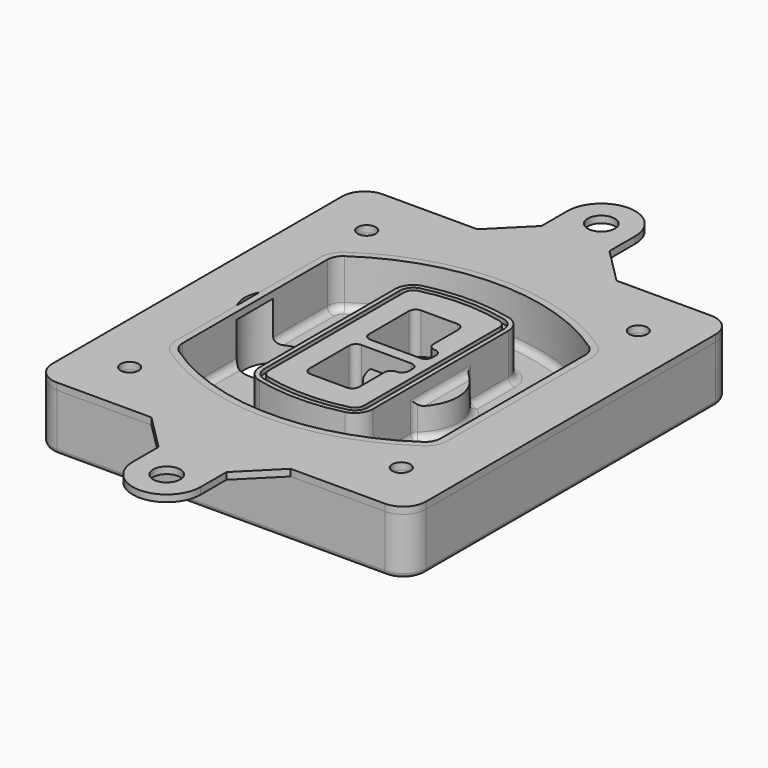
from build123d import *

# Parameters (mm, degrees)
F0_R      = 4
F1_DEPTH  = 25
F2_DEPTH  = 3
F3_DEPTH  = 18
F5_DEPTH  = 21
F6_DEPTH  = 2
F8_DEPTH  = 20
F9_DEPTH  = 16
F10_DEPTH = 25
F7_R      = 6
F7_R_2    = 4
F11_DEPTH = 6
F13_DEPTH = 9
F14_R     = 3
F15_R     = 2
F16_R     = 6
F16_R_2   = 4
F17_DEPTH = 3


with BuildPart() as f1:
    # F0 (on Top) → F1 (new body)
    with BuildSketch(Plane.XY):
        with BuildLine():
            ThreePointArc((-82.5, -80), (-79.5710678119, -87.0710678119), (-72.5, -90))
            Line((-72.5, -90), (72.5, -90))
            ThreePointArc((72.5, -90), (79.5710678119, -87.0710678119), (82.5, -80))
            Line((82.5, -80), (82.5, 80))
            ThreePointArc((82.5, 80), (79.5710678119, 87.0710678119), (72.5, 90))
            Line((72.5, 90), (-72.5, 90))
            ThreePointArc((-72.5, 90), (-79.5710678119, 87.0710678119), (-82.5, 80))
            Line((-82.5, 80), (-82.5, -80))
        make_face()
        with Locations((-60, -65.4545454545)):
            Circle(F0_R, mode=Mode.SUBTRACT)
        with Locations((60, -65.4545454545)):
            Circle(F0_R, mode=Mode.SUBTRACT)
        with Locations((-60, 65.4545454545)):
            Circle(F0_R, mode=Mode.SUBTRACT)
        with BuildLine():
            ThreePointArc((-64, 39.9187553982), (-62.3910605792, 46.4350133521), (-57.934054611, 51.4535192635))
            ThreePointArc((-57.934054611, 51.4535192635), (0, 69.4545454545), (57.934054611, 51.4535192635))
            ThreePointArc((57.934054611, 51.4535192635), (62.3910605792, 46.4350133521), (64, 39.9187553982))
            Line((64, 39.9187553982), (64, -39.9187553982))
            ThreePointArc((64, -39.9187553982), (62.3910605792, -46.4350133521), (57.934054611, -51.4535192635))
            ThreePointArc((57.934054611, -51.4535192635), (0, -69.4545454545), (-57.934054611, -51.4535192635))
            ThreePointArc((-57.934054611, -51.4535192635), (-62.3910605792, -46.4350133521), (-64, -39.9187553982))
            Line((-64, -39.9187553982), (-64, 39.9187553982))
        make_face(mode=Mode.SUBTRACT)
        with Locations((60, 65.4545454545)):
            Circle(F0_R, mode=Mode.SUBTRACT)
        with BuildLine():
            ThreePointArc((57.934054611, 51.4535192635), (0, 69.4545454545), (-57.934054611, 51.4535192635))
            ThreePointArc((-57.934054611, 51.4535192635), (-62.3910605792, 46.4350133521), (-64, 39.9187553982))
            Line((-64, 39.9187553982), (-64, -39.9187553982))
            ThreePointArc((-64, -39.9187553982), (-62.3910605792, -46.4350133521), (-57.934054611, -51.4535192635))
            ThreePointArc((-57.934054611, -51.4535192635), (0, -69.4545454545), (57.934054611, -51.4535192635))
            ThreePointArc((57.934054611, -51.4535192635), (62.3910605792, -46.4350133521), (64, -39.9187553982))
            Line((64, -39.9187553982), (64, 39.9187553982))
            ThreePointArc((64, 39.9187553982), (62.3910605792, 46.4350133521), (57.934054611, 51.4535192635))
        make_face()
        with BuildLine():
            Line((-60, -39.9187553982), (-60, 39.9187553982))
            ThreePointArc((-60, 39.9187553982), (-58.8507575566, 44.5732253653), (-55.667181865, 48.1578724448))
            ThreePointArc((-55.667181865, 48.1578724448), (0, 65.4545454545), (55.667181865, 48.1578724448))
            ThreePointArc((55.667181865, 48.1578724448), (58.8507575566, 44.5732253653), (60, 39.9187553982))
            Line((60, 39.9187553982), (60, -39.9187553982))
            ThreePointArc((60, -39.9187553982), (58.8507575566, -44.5732253653), (55.667181865, -48.1578724448))
            ThreePointArc((55.667181865, -48.1578724448), (0, -65.4545454545), (-55.667181865, -48.1578724448))
            ThreePointArc((-55.667181865, -48.1578724448), (-58.8507575566, -44.5732253653), (-60, -39.9187553982))
        make_face(mode=Mode.SUBTRACT)
        with BuildLine():
            ThreePointArc((-55.667181865, 48.1578724448), (-58.8507575566, 44.5732253653), (-60, 39.9187553982))
            Line((-60, 39.9187553982), (-60, -39.9187553982))
            ThreePointArc((-60, -39.9187553982), (-58.8507575566, -44.5732253653), (-55.667181865, -48.1578724448))
            ThreePointArc((-55.667181865, -48.1578724448), (0, -65.4545454545), (55.667181865, -48.1578724448))
            ThreePointArc((55.667181865, -48.1578724448), (58.8507575566, -44.5732253653), (60, -39.9187553982))
            Line((60, -39.9187553982), (60, 39.9187553982))
            ThreePointArc((60, 39.9187553982), (58.8507575566, 44.5732253653), (55.667181865, 48.1578724448))
            ThreePointArc((55.667181865, 48.1578724448), (0, 65.4545454545), (-55.667181865, 48.1578724448))
        make_face()
        with BuildLine():
            ThreePointArc((53.9670273055, 45.6861373308), (56.1955302896, 43.1768843752), (57, 39.9187553982))
            Line((57, 39.9187553982), (57, -39.9187553982))
            ThreePointArc((57, -39.9187553982), (56.1955302896, -43.1768843752), (53.9670273055, -45.6861373308))
            ThreePointArc((53.9670273055, -45.6861373308), (0, -62.4545454545), (-53.9670273055, -45.6861373308))
            ThreePointArc((-53.9670273055, -45.6861373308), (-56.1955302896, -43.1768843752), (-57, -39.9187553982))
            Line((-57, -39.9187553982), (-57, 39.9187553982))
            ThreePointArc((-57, 39.9187553982), (-56.1955302896, 43.1768843752), (-53.9670273055, 45.6861373308))
            ThreePointArc((-53.9670273055, 45.6861373308), (0, 62.4545454545), (53.9670273055, 45.6861373308))
        make_face(mode=Mode.SUBTRACT)
        with BuildLine():
            Line((57, -39.9187553982), (57, 39.9187553982))
            ThreePointArc((57, 39.9187553982), (56.1955302896, 43.1768843752), (53.9670273055, 45.6861373308))
            ThreePointArc((53.9670273055, 45.6861373308), (0, 62.4545454545), (-53.9670273055, 45.6861373308))
            ThreePointArc((-53.9670273055, 45.6861373308), (-56.1955302896, 43.1768843752), (-57, 39.9187553982))
            Line((-57, 39.9187553982), (-57, -39.9187553982))
            ThreePointArc((-57, -39.9187553982), (-56.1955302896, -43.1768843752), (-53.9670273055, -45.6861373308))
            ThreePointArc((-53.9670273055, -45.6861373308), (0, -62.4545454545), (53.9670273055, -45.6861373308))
            ThreePointArc((53.9670273055, -45.6861373308), (56.1955302896, -43.1768843752), (57, -39.9187553982))
        make_face()
    extrude(amount=-F1_DEPTH)

    # F0 (on Top) → F2 (join)
    with BuildSketch(Plane.XY):
        with BuildLine():
            ThreePointArc((-55.667181865, 48.1578724448), (-58.8507575566, 44.5732253653), (-60, 39.9187553982))
            Line((-60, 39.9187553982), (-60, -39.9187553982))
            ThreePointArc((-60, -39.9187553982), (-58.8507575566, -44.5732253653), (-55.667181865, -48.1578724448))
            ThreePointArc((-55.667181865, -48.1578724448), (0, -65.4545454545), (55.667181865, -48.1578724448))
            ThreePointArc((55.667181865, -48.1578724448), (58.8507575566, -44.5732253653), (60, -39.9187553982))
            Line((60, -39.9187553982), (60, 39.9187553982))
            ThreePointArc((60, 39.9187553982), (58.8507575566, 44.5732253653), (55.667181865, 48.1578724448))
            ThreePointArc((55.667181865, 48.1578724448), (0, 65.4545454545), (-55.667181865, 48.1578724448))
        make_face()
        with BuildLine():
            ThreePointArc((53.9670273055, 45.6861373308), (56.1955302896, 43.1768843752), (57, 39.9187553982))
            Line((57, 39.9187553982), (57, -39.9187553982))
            ThreePointArc((57, -39.9187553982), (56.1955302896, -43.1768843752), (53.9670273055, -45.6861373308))
            ThreePointArc((53.9670273055, -45.6861373308), (0, -62.4545454545), (-53.9670273055, -45.6861373308))
            ThreePointArc((-53.9670273055, -45.6861373308), (-56.1955302896, -43.1768843752), (-57, -39.9187553982))
            Line((-57, -39.9187553982), (-57, 39.9187553982))
            ThreePointArc((-57, 39.9187553982), (-56.1955302896, 43.1768843752), (-53.9670273055, 45.6861373308))
            ThreePointArc((-53.9670273055, 45.6861373308), (0, 62.4545454545), (53.9670273055, 45.6861373308))
        make_face(mode=Mode.SUBTRACT)
    extrude(amount=F2_DEPTH)

    # F0 (on Top) → F3 (cut)
    with BuildSketch(Plane.XY):
        with BuildLine():
            Line((57, -39.9187553982), (57, 39.9187553982))
            ThreePointArc((57, 39.9187553982), (56.1955302896, 43.1768843752), (53.9670273055, 45.6861373308))
            ThreePointArc((53.9670273055, 45.6861373308), (0, 62.4545454545), (-53.9670273055, 45.6861373308))
            ThreePointArc((-53.9670273055, 45.6861373308), (-56.1955302896, 43.1768843752), (-57, 39.9187553982))
            Line((-57, 39.9187553982), (-57, -39.9187553982))
            ThreePointArc((-57, -39.9187553982), (-56.1955302896, -43.1768843752), (-53.9670273055, -45.6861373308))
            ThreePointArc((-53.9670273055, -45.6861373308), (0, -62.4545454545), (53.9670273055, -45.6861373308))
            ThreePointArc((53.9670273055, -45.6861373308), (56.1955302896, -43.1768843752), (57, -39.9187553982))
        make_face()
    extrude(amount=-F3_DEPTH, mode=Mode.SUBTRACT)

    # F4 (on face) → F5 (join, through all)
    with BuildSketch(Plane.XY.offset(3)):
        with BuildLine():
            ThreePointArc((-25, -37.4254131985), (-23.2874303968, -42.3719492598), (-18.8829452486, -45.2006634961))
            ThreePointArc((-18.8829452486, -45.2006634961), (0, -47.4545454545), (18.8829452486, -45.2006634961))
            ThreePointArc((18.8829452486, -45.2006634961), (23.2874303968, -42.3719492598), (25, -37.4254131985))
            Line((25, -37.4254131985), (25, 37.4254131985))
            ThreePointArc((25, 37.4254131985), (23.2874303968, 42.3719492598), (18.8829452486, 45.2006634961))
            ThreePointArc((18.8829452486, 45.2006634961), (0, 47.4545454545), (-18.8829452486, 45.2006634961))
            ThreePointArc((-18.8829452486, 45.2006634961), (-23.2874303968, 42.3719492598), (-25, 37.4254131985))
            Line((-25, 37.4254131985), (-25, -37.4254131985))
        make_face()
        with BuildLine():
            ThreePointArc((18.4122089364, 43.2568509217), (21.7155727976, 41.1353152445), (23, 37.4254131985))
            Line((23, 37.4254131985), (23, -37.4254131985))
            ThreePointArc((23, -37.4254131985), (21.7155727976, -41.1353152445), (18.4122089364, -43.2568509217))
            ThreePointArc((18.4122089364, -43.2568509217), (0, -45.4545454545), (-18.4122089364, -43.2568509217))
            ThreePointArc((-18.4122089364, -43.2568509217), (-21.7155727976, -41.1353152445), (-23, -37.4254131985))
            Line((-23, -37.4254131985), (-23, 37.4254131985))
            ThreePointArc((-23, 37.4254131985), (-21.7155727976, 41.1353152445), (-18.4122089364, 43.2568509217))
            ThreePointArc((-18.4122089364, 43.2568509217), (0, 45.4545454545), (18.4122089364, 43.2568509217))
        make_face(mode=Mode.SUBTRACT)
        with BuildLine():
            Line((23, -37.4254131985), (23, 37.4254131985))
            ThreePointArc((23, 37.4254131985), (21.7155727976, 41.1353152445), (18.4122089364, 43.2568509217))
            ThreePointArc((18.4122089364, 43.2568509217), (0, 45.4545454545), (-18.4122089364, 43.2568509217))
            ThreePointArc((-18.4122089364, 43.2568509217), (-21.7155727976, 41.1353152445), (-23, 37.4254131985))
            Line((-23, 37.4254131985), (-23, -37.4254131985))
            ThreePointArc((-23, -37.4254131985), (-21.7155727976, -41.1353152445), (-18.4122089364, -43.2568509217))
            ThreePointArc((-18.4122089364, -43.2568509217), (0, -45.4545454545), (18.4122089364, -43.2568509217))
            ThreePointArc((18.4122089364, -43.2568509217), (21.7155727976, -41.1353152445), (23, -37.4254131985))
        make_face()
        with BuildLine():
            ThreePointArc((17.9414726243, 41.3130383473), (20.1437151984, 39.8986812292), (21, 37.4254131985))
            Line((21, 37.4254131985), (21, -37.4254131985))
            ThreePointArc((21, -37.4254131985), (20.1437151984, -39.8986812292), (17.9414726243, -41.3130383473))
            ThreePointArc((17.9414726243, -41.3130383473), (0, -43.4545454545), (-17.9414726243, -41.3130383473))
            ThreePointArc((-17.9414726243, -41.3130383473), (-20.1437151984, -39.8986812292), (-21, -37.4254131985))
            Line((-21, -37.4254131985), (-21, 37.4254131985))
            ThreePointArc((-21, 37.4254131985), (-20.1437151984, 39.8986812292), (-17.9414726243, 41.3130383473))
            ThreePointArc((-17.9414726243, 41.3130383473), (0, 43.4545454545), (17.9414726243, 41.3130383473))
        make_face(mode=Mode.SUBTRACT)
        with BuildLine():
            Line((21, -37.4254131985), (21, 37.4254131985))
            ThreePointArc((21, 37.4254131985), (20.1437151984, 39.8986812292), (17.9414726243, 41.3130383473))
            ThreePointArc((17.9414726243, 41.3130383473), (0, 43.4545454545), (-17.9414726243, 41.3130383473))
            ThreePointArc((-17.9414726243, 41.3130383473), (-20.1437151984, 39.8986812292), (-21, 37.4254131985))
            Line((-21, 37.4254131985), (-21, -37.4254131985))
            ThreePointArc((-21, -37.4254131985), (-20.1437151984, -39.8986812292), (-17.9414726243, -41.3130383473))
            ThreePointArc((-17.9414726243, -41.3130383473), (0, -43.4545454545), (17.9414726243, -41.3130383473))
            ThreePointArc((17.9414726243, -41.3130383473), (20.1437151984, -39.8986812292), (21, -37.4254131985))
        make_face()
        with BuildLine():
            Line((-8, -2.5), (14, -2.5))
            ThreePointArc((14, -2.5), (16.1213203436, -3.3786796564), (17, -5.5))
            Line((17, -5.5), (17, -7.5))
            ThreePointArc((17, -7.5), (16.1213203436, -9.6213203436), (14, -10.5))
            ThreePointArc((14, -10.5), (11.8786796564, -11.3786796564), (11, -13.5))
            Line((11, -13.5), (11, -27.5))
            ThreePointArc((11, -27.5), (10.1213203436, -29.6213203436), (8, -30.5))
            Line((8, -30.5), (-8, -30.5))
            ThreePointArc((-8, -30.5), (-10.1213203436, -29.6213203436), (-11, -27.5))
            Line((-11, -27.5), (-11, -5.5))
            ThreePointArc((-11, -5.5), (-10.1213203436, -3.3786796564), (-8, -2.5))
        make_face(mode=Mode.SUBTRACT)
        with BuildLine():
            ThreePointArc((-8, 2.5), (-10.1213203436, 3.3786796564), (-11, 5.5))
            Line((-11, 5.5), (-11, 27.5))
            ThreePointArc((-11, 27.5), (-10.1213203436, 29.6213203436), (-8, 30.5))
            Line((-8, 30.5), (8, 30.5))
            ThreePointArc((8, 30.5), (10.1213203436, 29.6213203436), (11, 27.5))
            Line((11, 27.5), (11, 13.5))
            ThreePointArc((11, 13.5), (11.8786796564, 11.3786796564), (14, 10.5))
            ThreePointArc((14, 10.5), (16.1213203436, 9.6213203436), (17, 7.5))
            Line((17, 7.5), (17, 5.5))
            ThreePointArc((17, 5.5), (16.1213203436, 3.3786796564), (14, 2.5))
            Line((14, 2.5), (-8, 2.5))
        make_face(mode=Mode.SUBTRACT)
    extrude(amount=-F5_DEPTH)

    # F4 (on face) → F6 (cut)
    with BuildSketch(Plane.XY.offset(3)):
        with BuildLine():
            Line((23, -37.4254131985), (23, 37.4254131985))
            ThreePointArc((23, 37.4254131985), (21.7155727976, 41.1353152445), (18.4122089364, 43.2568509217))
            ThreePointArc((18.4122089364, 43.2568509217), (0, 45.4545454545), (-18.4122089364, 43.2568509217))
            ThreePointArc((-18.4122089364, 43.2568509217), (-21.7155727976, 41.1353152445), (-23, 37.4254131985))
            Line((-23, 37.4254131985), (-23, -37.4254131985))
            ThreePointArc((-23, -37.4254131985), (-21.7155727976, -41.1353152445), (-18.4122089364, -43.2568509217))
            ThreePointArc((-18.4122089364, -43.2568509217), (0, -45.4545454545), (18.4122089364, -43.2568509217))
            ThreePointArc((18.4122089364, -43.2568509217), (21.7155727976, -41.1353152445), (23, -37.4254131985))
        make_face()
        with BuildLine():
            ThreePointArc((17.9414726243, 41.3130383473), (20.1437151984, 39.8986812292), (21, 37.4254131985))
            Line((21, 37.4254131985), (21, -37.4254131985))
            ThreePointArc((21, -37.4254131985), (20.1437151984, -39.8986812292), (17.9414726243, -41.3130383473))
            ThreePointArc((17.9414726243, -41.3130383473), (0, -43.4545454545), (-17.9414726243, -41.3130383473))
            ThreePointArc((-17.9414726243, -41.3130383473), (-20.1437151984, -39.8986812292), (-21, -37.4254131985))
            Line((-21, -37.4254131985), (-21, 37.4254131985))
            ThreePointArc((-21, 37.4254131985), (-20.1437151984, 39.8986812292), (-17.9414726243, 41.3130383473))
            ThreePointArc((-17.9414726243, 41.3130383473), (0, 43.4545454545), (17.9414726243, 41.3130383473))
        make_face(mode=Mode.SUBTRACT)
    extrude(amount=-F6_DEPTH, mode=Mode.SUBTRACT)

    # F7 (on face) → F8 (join)
    with BuildSketch(Plane(origin=(0, 0, -25), x_dir=(1, 0, 0), z_dir=(0, 0, -1))):
        with BuildLine():
            ThreePointArc((0.78842436, 0), (14.2567035675, 13.4682792075), (27.724982775, 0))
            Line((27.724982775, 0), (32.724982775, 0))
            ThreePointArc((32.724982775, 0), (14.2567035675, 18.4682792075), (-4.21157564, 0))
            Line((-4.21157564, 0), (0.78842436, 0))
        make_face()
        with BuildLine():
            Line((0.78842436, 0), (27.724982775, 0))
            ThreePointArc((27.724982775, 0), (14.2567035675, 13.4682792075), (0.78842436, 0))
        make_face()
        with BuildLine():
            ThreePointArc((0.78842436, 0), (14.2567035675, -13.4682792075), (27.724982775, 0))
            Line((27.724982775, 0), (0.78842436, 0))
        make_face()
        with BuildLine():
            Line((32.724982775, 0), (27.724982775, 0))
            ThreePointArc((27.724982775, 0), (14.2567035675, -13.4682792075), (0.78842436, 0))
            Line((0.78842436, 0), (-4.21157564, 0))
            ThreePointArc((-4.21157564, 0), (14.2567035675, -18.4682792075), (32.724982775, 0))
        make_face()
    extrude(amount=-F8_DEPTH)

    # F7 (on face) → F9 (cut)
    with BuildSketch(Plane(origin=(0, 0, -25), x_dir=(1, 0, 0), z_dir=(0, 0, -1))):
        with BuildLine():
            Line((0.78842436, 0), (27.724982775, 0))
            ThreePointArc((27.724982775, 0), (14.2567035675, 13.4682792075), (0.78842436, 0))
        make_face()
        with BuildLine():
            ThreePointArc((0.78842436, 0), (14.2567035675, -13.4682792075), (27.724982775, 0))
            Line((27.724982775, 0), (0.78842436, 0))
        make_face()
    extrude(amount=-F9_DEPTH, mode=Mode.SUBTRACT)

    # F7 (on face) → F10 (cut)
    with BuildSketch(Plane(origin=(0, 0, -25), x_dir=(1, 0, 0), z_dir=(0, 0, -1))):
        with BuildLine():
            Line((-61.5318229325, 0), (-34.5952645175, 0))
            ThreePointArc((-34.5952645175, 0), (-48.063543725, 13.4682792075), (-61.5318229325, 0))
        make_face()
        with BuildLine():
            ThreePointArc((-61.5318229325, 0), (-48.063543725, -13.4682792075), (-34.5952645175, 0))
            Line((-34.5952645175, 0), (-61.5318229325, 0))
        make_face()
    extrude(amount=-F10_DEPTH, mode=Mode.SUBTRACT)

    # F7 (on face) → F11 (cut)
    with BuildSketch(Plane(origin=(0, 0, -25), x_dir=(1, 0, 0), z_dir=(0, 0, -1))):
        with Locations((60, -65.4545454545)):
            Circle(F7_R)
        with Locations((60, -65.4545454545)):
            Circle(F7_R_2, mode=Mode.SUBTRACT)
        with Locations((60, -65.4545454545)):
            Circle(F7_R)
        with Locations((60, -65.4545454545)):
            Circle(F7_R_2, mode=Mode.SUBTRACT)
        with Locations((-60, -65.4545454545)):
            Circle(F7_R)
        with Locations((-60, -65.4545454545)):
            Circle(F7_R_2, mode=Mode.SUBTRACT)
        with Locations((-60, -65.4545454545)):
            Circle(F7_R)
        with Locations((-60, -65.4545454545)):
            Circle(F7_R_2, mode=Mode.SUBTRACT)
        with Locations((-60, 65.4545454545)):
            Circle(F7_R)
        with Locations((-60, 65.4545454545)):
            Circle(F7_R_2, mode=Mode.SUBTRACT)
        with Locations((-60, 65.4545454545)):
            Circle(F7_R)
        with Locations((-60, 65.4545454545)):
            Circle(F7_R_2, mode=Mode.SUBTRACT)
        with Locations((60, 65.4545454545)):
            Circle(F7_R)
        with Locations((60, 65.4545454545)):
            Circle(F7_R_2, mode=Mode.SUBTRACT)
        with Locations((60, 65.4545454545)):
            Circle(F7_R)
        with Locations((60, 65.4545454545)):
            Circle(F7_R_2, mode=Mode.SUBTRACT)
    extrude(amount=-F11_DEPTH, mode=Mode.SUBTRACT)

    # F12 (on face) → F13 (cut, through all)
    with BuildSketch(Plane(origin=(0, 0, -9), x_dir=(1, 0, 0), z_dir=(0, 0, -1))):
        with BuildLine():
            Line((11, 13.5), (11, 18.1788673674))
            ThreePointArc((11, 18.1788673674), (0.9296208472, 12.785390219), (-4.0415842455, 2.5))
            Line((-4.0415842455, 2.5), (1.0224848595, 2.5))
            ThreePointArc((1.0224848595, 2.5), (4.4739151918, 9.256975554), (11.0301038552, 13.0760697118))
            ThreePointArc((11.0301038552, 13.0760697118), (11.0075354276, 13.2875010992), (11, 13.5))
        make_face()
        with BuildLine():
            ThreePointArc((11.0301038552, -13.0760697118), (4.4739151918, -9.256975554), (1.0224848595, -2.5))
            Line((1.0224848595, -2.5), (-4.0415842455, -2.5))
            ThreePointArc((-4.0415842455, -2.5), (0.9296208472, -12.785390219), (11, -18.1788673674))
            Line((11, -18.1788673674), (11, -13.5))
            ThreePointArc((11, -13.5), (11.0075354276, -13.2875010992), (11.0301038552, -13.0760697118))
        make_face()
        with BuildLine():
            ThreePointArc((11.0301038552, 13.0760697118), (4.4739151918, 9.256975554), (1.0224848595, 2.5))
            Line((1.0224848595, 2.5), (14, 2.5))
            ThreePointArc((14, 2.5), (16.1213203436, 3.3786796564), (17, 5.5))
            Line((17, 5.5), (17, 7.5))
            ThreePointArc((17, 7.5), (16.1213203436, 9.6213203436), (14, 10.5))
            ThreePointArc((14, 10.5), (12.0342674221, 11.2337485947), (11.0301038552, 13.0760697118))
        make_face()
        with BuildLine():
            Line((14, -2.5), (1.0224848595, -2.5))
            ThreePointArc((1.0224848595, -2.5), (4.4739151918, -9.256975554), (11.0301038552, -13.0760697118))
            ThreePointArc((11.0301038552, -13.0760697118), (12.0342674221, -11.2337485947), (14, -10.5))
            ThreePointArc((14, -10.5), (16.1213203436, -9.6213203436), (17, -7.5))
            Line((17, -7.5), (17, -5.5))
            ThreePointArc((17, -5.5), (16.1213203436, -3.3786796564), (14, -2.5))
        make_face()
    extrude(amount=F13_DEPTH, mode=Mode.SUBTRACT)

    # F14
    f14_edges = [f1.edges().sort_by_distance(p)[0] for p in [
        (-57, -24.997589, -18),
        (-57, 24.997589, -18),
        (25, 0, -5),
        (25, 15.021948, -11.5),
        (25, -15.021948, -11.5),
        (25, -26.223681, -18),
        (32.724983, 0, -18),
    ]]
    fillet(f14_edges, radius=F14_R)

    # F15
    f15_edges = [f1.edges().sort_by_distance(p)[0] for p in [
        (0, -90, -25),
    ]]
    fillet(f15_edges, radius=F15_R)


with BuildPart() as f17:
    # F16 (on face) → F17 (new body, through all)
    with BuildSketch(Plane.XY):
        with BuildLine():
            Line((-15, 105.7380080597), (-30.7380080597, 90))
            Line((-30.7380080597, 90), (30.7380080597, 90))
            Line((30.7380080597, 90), (15, 105.7380080597))
            Line((15, 105.7380080597), (15, 120))
            ThreePointArc((15, 120), (0, 135), (-15, 120))
            Line((-15, 120), (-15, 105.7380080597))
        make_face()
        with Locations((0, 120)):
            Circle(F16_R, mode=Mode.SUBTRACT)
        with BuildLine():
            Line((30.7380080597, 90), (-30.7380080597, 90))
            Line((-30.7380080597, 90), (-72.5, 90))
            ThreePointArc((-72.5, 90), (-79.5710678119, 87.0710678119), (-82.5, 80))
            Line((-82.5, 80), (-82.5, -80))
            ThreePointArc((-82.5, -80), (-79.5710678119, -87.0710678119), (-72.5, -90))
            Line((-72.5, -90), (-30.7380080597, -90))
            Line((-30.7380080597, -90), (30.7380080597, -90))
            Line((30.7380080597, -90), (72.5, -90))
            ThreePointArc((72.5, -90), (79.5710678119, -87.0710678119), (82.5, -80))
            Line((82.5, -80), (82.5, 80))
            ThreePointArc((82.5, 80), (79.5710678119, 87.0710678119), (72.5, 90))
            Line((72.5, 90), (30.7380080597, 90))
        make_face()
        with Locations((-60, -65.4545454545)):
            Circle(F16_R_2, mode=Mode.SUBTRACT)
        with BuildLine():
            ThreePointArc((-60, 39.9187553982), (-58.8507575566, 44.5732253653), (-55.667181865, 48.1578724448))
            ThreePointArc((-55.667181865, 48.1578724448), (0, 65.4545454545), (55.667181865, 48.1578724448))
            ThreePointArc((55.667181865, 48.1578724448), (58.8507575566, 44.5732253653), (60, 39.9187553982))
            Line((60, 39.9187553982), (60, -39.9187553982))
            ThreePointArc((60, -39.9187553982), (58.8507575566, -44.5732253653), (55.667181865, -48.1578724448))
            ThreePointArc((55.667181865, -48.1578724448), (0, -65.4545454545), (-55.667181865, -48.1578724448))
            ThreePointArc((-55.667181865, -48.1578724448), (-58.8507575566, -44.5732253653), (-60, -39.9187553982))
            Line((-60, -39.9187553982), (-60, -6.2382334364))
            ThreePointArc((-60, -6.2382334364), (-61.1432621981, -3.2117766853), (-61.5318229325, 0))
            ThreePointArc((-61.5318229325, 0), (-61.1432621981, 3.2117766853), (-60, 6.2382334364))
            Line((-60, 6.2382334364), (-60, 39.9187553982))
        make_face(mode=Mode.SUBTRACT)
        with Locations((60, -65.4545454545)):
            Circle(F16_R_2, mode=Mode.SUBTRACT)
        with Locations((-60, 65.4545454545)):
            Circle(F16_R_2, mode=Mode.SUBTRACT)
        with Locations((60, 65.4545454545)):
            Circle(F16_R_2, mode=Mode.SUBTRACT)
        with BuildLine():
            Line((30.7380080597, -90), (-30.7380080597, -90))
            Line((-30.7380080597, -90), (-15, -105.7380080597))
            Line((-15, -105.7380080597), (-15, -120))
            ThreePointArc((-15, -120), (0, -135), (15, -120))
            Line((15, -120), (15, -105.7380080597))
            Line((15, -105.7380080597), (30.7380080597, -90))
        make_face()
        with Locations((0, -120)):
            Circle(F16_R, mode=Mode.SUBTRACT)
    extrude(amount=F17_DEPTH)


solid = Compound([f1.part, f17.part])
